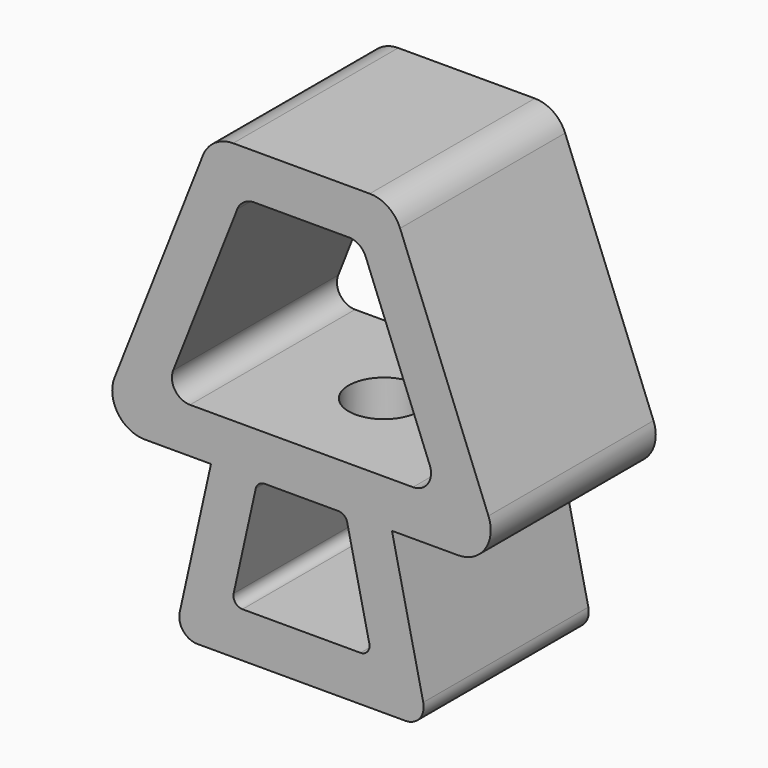
from build123d import *

# Parameters (mm, degrees)
F1_DEPTH  = 57
F2_R      = 18
F3_R      = 10
F5_DEPTH  = 114
F6_R      = 5
F8_DEPTH  = 114
F9_R      = 10
F10_R     = 19.5
F11_DEPTH = 25


with BuildPart() as f1:
    # F0 (on Front) → F1 (new body, symmetric)
    with BuildSketch(Plane.XZ):
        Polygon((-70, 0), (70, 0), (50, 90), (112.991273, 90), (50, 250), (-50, 250), (-112.991273, 90), (-50, 90), align=None)
    extrude(amount=F1_DEPTH, both=True)

    # F2
    f2_edges = [f1.edges().sort_by_distance(p)[0] for p in [
        (50, 0, 250),
        (-50, 0, 250),
        (112.991273, 0, 90),
        (-112.991273, 0, 90),
    ]]
    fillet(f2_edges, radius=F2_R)

    # F3
    f3_edges = [f1.edges().sort_by_distance(p)[0] for p in [
        (70, 0, 0),
        (-70, 0, 0),
    ]]
    fillet(f3_edges, radius=F3_R)

    # F4 (on face) → F5 (cut, through all)
    with BuildSketch(Plane.XZ.offset(57)):
        Polygon((-38.834599, 25), (38.834599, 25), (24.390154, 90), (-24.390154, 90), align=None)
    extrude(amount=-F5_DEPTH, mode=Mode.SUBTRACT)

    # F6
    f6_edges = [f1.edges().sort_by_distance(p)[0] for p in [
        (-38.834599, 0, 25),
        (38.834599, 0, 25),
        (-24.390154, 0, 90),
        (24.390154, 0, 90),
    ]]
    fillet(f6_edges, radius=F6_R)

    # F7 (on face) → F8 (cut, through all)
    with BuildSketch(Plane.XZ.offset(57)):
        Polygon((-76.281201, 115), (76.281201, 115), (32.9747, 225), (-32.9747, 225), align=None)
    extrude(amount=-F8_DEPTH, mode=Mode.SUBTRACT)

    # F9
    f9_edges = [f1.edges().sort_by_distance(p)[0] for p in [
        (-76.281201, 0, 115),
        (76.281201, 0, 115),
        (32.9747, 0, 225),
        (-32.9747, 0, 225),
    ]]
    fillet(f9_edges, radius=F9_R)

    # F10 (on face) → F11 (cut, through all)
    with BuildSketch(Plane.XY.offset(115)):
        Circle(F10_R)
    extrude(amount=-F11_DEPTH, mode=Mode.SUBTRACT)


solid = f1.part
